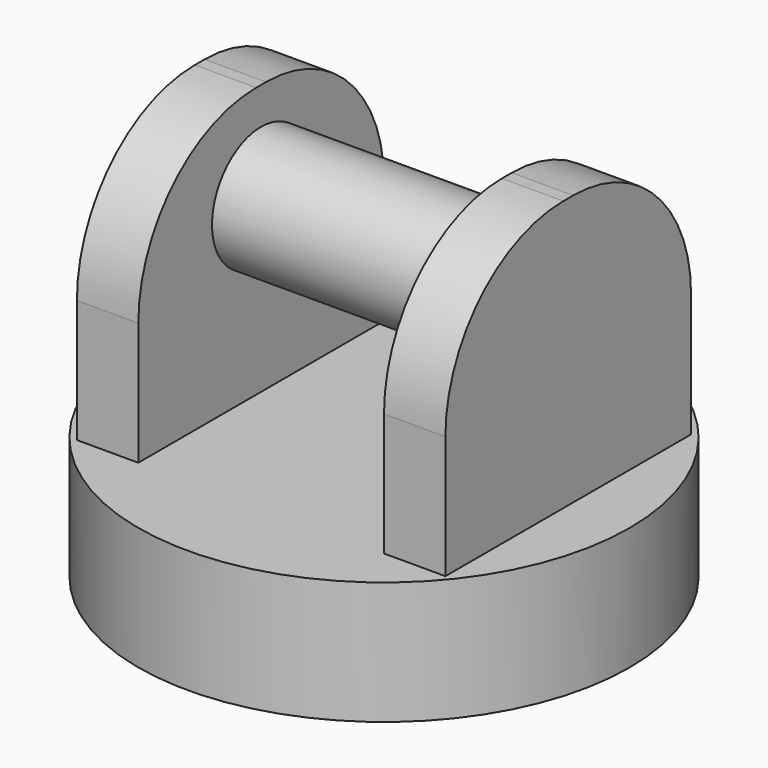
from build123d import *

# Parameters (mm, degrees)
SKETCH_R     = 200
PAD_DEPTH    = 100
SKETCH001_W  = 50
SKETCH001_H  = 250
PAD001_DEPTH = 220
FILLET_R     = 120
SKETCH002_R  = 50
PAD002_DEPTH = 300


with BuildPart() as part:
    # Sketch → Pad (new body)
    with BuildSketch(Plane.XY):
        Circle(SKETCH_R)
    extrude(amount=PAD_DEPTH)

    # Sketch001 (on Face3 of Pad) → Pad001 (join)
    with BuildSketch(Plane.XY.offset(100)):
        with Locations((-125, 0)):
            Rectangle(SKETCH001_W, SKETCH001_H)
        with Locations((125, 0)):
            Rectangle(SKETCH001_W, SKETCH001_H)
    extrude(amount=PAD001_DEPTH)

    # Fillet
    fillet_edges = [part.edges().sort_by_distance(p)[0] for p in [
        (-125, -125, 320),
        (125, -125, 320),
        (125, 125, 320),
        (-125, 125, 320),
    ]]
    fillet(fillet_edges, radius=FILLET_R)

    # Sketch002 (on Face12 of Fillet) → Pad002 (join)
    with BuildSketch(Plane.YZ.offset(150)):
        with Locations((0, 240)):
            Circle(SKETCH002_R)
    extrude(amount=-PAD002_DEPTH)


solid = part.part
